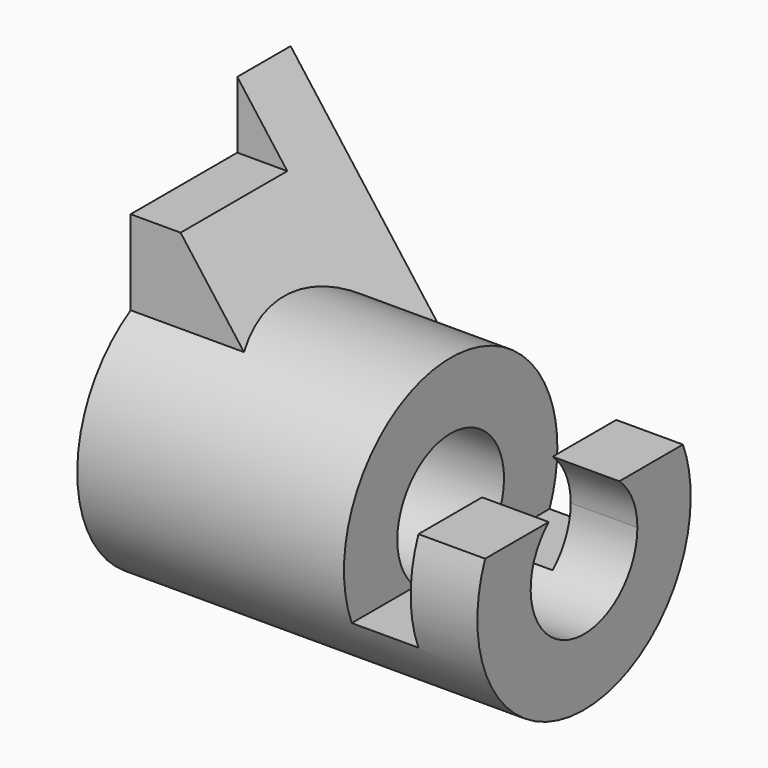
from build123d import *

# Parameters (mm, degrees)
F1_DEPTH  = 38.1
F2_R      = 25.4
F3_DEPTH  = 76.2
F4_R      = 12.7
F5_DEPTH  = 76.2
F7_DEPTH  = 25.4
F8_W      = 25.4
F8_H      = 12.7
F9_DEPTH  = 25.4
F10_W     = 12.7
F10_H     = 19.05
F11_DEPTH = 76.2


with BuildPart() as f1:
    # F0 (on Front) → F1 (new body)
    with BuildSketch(Plane.XZ):
        Polygon((0, 50.8), (0, 0), (38.1, 0), align=None)
    extrude(amount=F1_DEPTH)

    # F2 (on Right) → F3 (join)
    with BuildSketch(Plane.YZ):
        with Locations((-25.4, 0)):
            Circle(F2_R)
    extrude(amount=F3_DEPTH)

    # F4 (on face) → F5 (cut)
    with BuildSketch(Plane.YZ.offset(76.2)):
        with Locations((-25.4, 0)):
            Circle(F4_R)
    extrude(amount=-F5_DEPTH, mode=Mode.SUBTRACT)

    # F6 (on face) → F7 (cut)
    with BuildSketch(Plane.YZ.offset(76.2)):
        with BuildLine():
            Line((-48.9464301965, 9.525), (-33.8002604126, 9.525))
            ThreePointArc((-33.8002604126, 9.525), (-25.4, 12.7), (-16.9997395874, 9.525))
            Line((-16.9997395874, 9.525), (-1.8535698035, 9.525))
            ThreePointArc((-1.8535698035, 9.525), (-25.4, 25.4), (-48.9464301965, 9.525))
        make_face()
    extrude(amount=-F7_DEPTH, mode=Mode.SUBTRACT)

    # F8 (on face) → F9 (cut)
    with BuildSketch(Plane(origin=(0, 0, 0), x_dir=(0, -1, 0), z_dir=(-1, 0, 0))):
        with Locations((25.4, 44.45)):
            Rectangle(F8_W, F8_H)
    extrude(amount=-F9_DEPTH, mode=Mode.SUBTRACT)

    # F10 (on Front) → F11 (cut)
    with BuildSketch(Plane.XZ):
        with Locations((57.15, 0)):
            Rectangle(F10_W, F10_H)
    extrude(amount=F11_DEPTH, mode=Mode.SUBTRACT)


solid = f1.part
